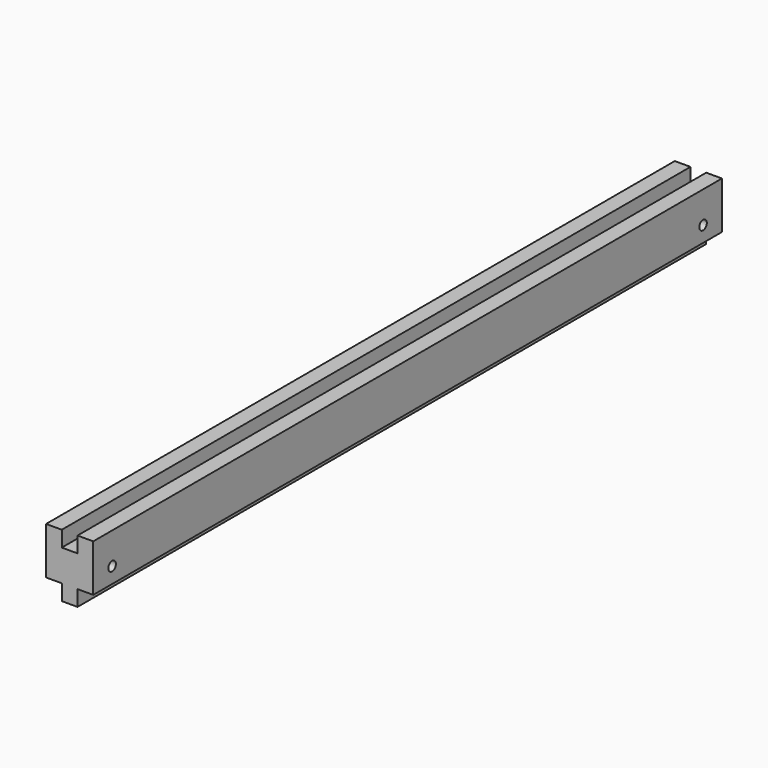
from build123d import *

# Parameters (mm, degrees)
F0_W     = 500
F0_H     = 20
F1_DEPTH = 30
F2_W     = 10
F2_H     = 10
F3_DEPTH = 500
F4_W     = 10
F4_H     = 10
F5_DEPTH = 500
F6_W     = 10
F6_H     = 10
F7_DEPTH = 500
F8_R     = 3
F9_DEPTH = 30


with BuildPart() as f1:
    # F0 (on Right) → F1 (new body)
    with BuildSketch(Plane.YZ):
        Rectangle(F0_W, F0_H)
    extrude(amount=F1_DEPTH)

    # F2 (on face) → F3 (join)
    with BuildSketch(Plane.XZ.offset(250)):
        with Locations((5, 15)):
            Rectangle(F2_W, F2_H)
    extrude(amount=-F3_DEPTH)

    # F4 (on face) → F5 (join)
    with BuildSketch(Plane.XZ.offset(250)):
        with Locations((25, 15)):
            Rectangle(F4_W, F4_H)
    extrude(amount=-F5_DEPTH)

    # F6 (on face) → F7 (join)
    with BuildSketch(Plane.XZ.offset(250)):
        with Locations((15, -15)):
            Rectangle(F6_W, F6_H)
    extrude(amount=-F7_DEPTH)

    # F8 (on face) → F9 (cut)
    with BuildSketch(Plane.YZ.offset(30)):
        with Locations((-235, 0)):
            Circle(F8_R)
        with Locations((235, 0)):
            Circle(F8_R)
    extrude(amount=-F9_DEPTH, mode=Mode.SUBTRACT)


solid = f1.part
